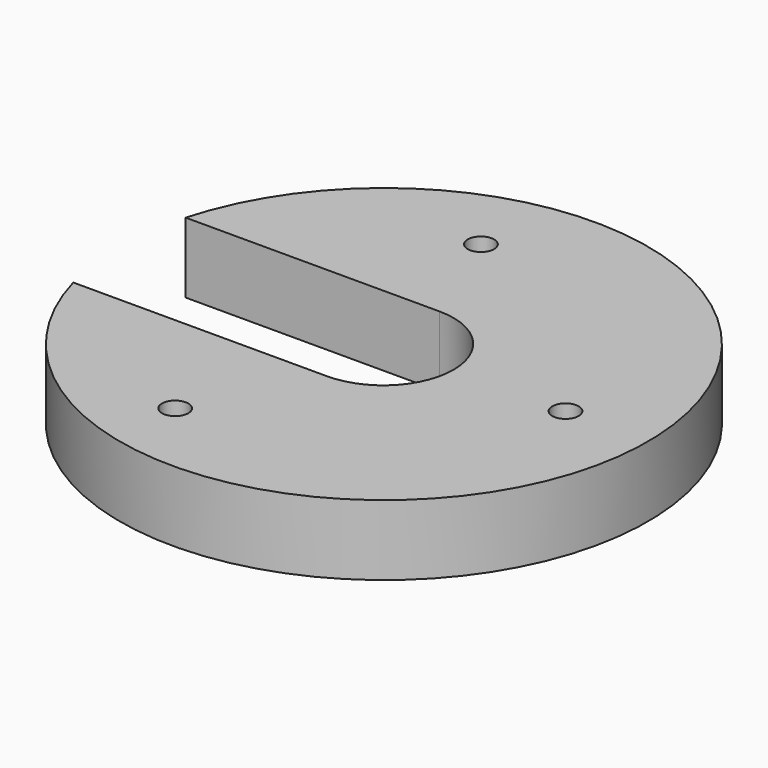
from build123d import *

# Parameters (mm, degrees)
F0_R     = 1.5
F1_DEPTH = 8


with BuildPart() as f1:
    # F0 (on Top) → F1 (new body)
    with BuildSketch(Plane.XY):
        with BuildLine():
            ThreePointArc((0, 7.982175), (7.982175, 0), (0, -7.982175))
            Line((0, -7.982175), (-28.84924, -7.982175))
            ThreePointArc((-28.84924, -7.982175), (30.069351, 0), (-28.84924, 7.982175))
            Line((-28.84924, 7.982175), (0, 7.982175))
        make_face()
        with Locations((-6.679961, -21.217225)):
            Circle(F0_R, mode=Mode.SUBTRACT)
        with Locations((-5.188019, 20.355852)):
            Circle(F0_R, mode=Mode.SUBTRACT)
        with Locations((20.707492, 0)):
            Circle(F0_R, mode=Mode.SUBTRACT)
    extrude(amount=F1_DEPTH)


solid = f1.part
